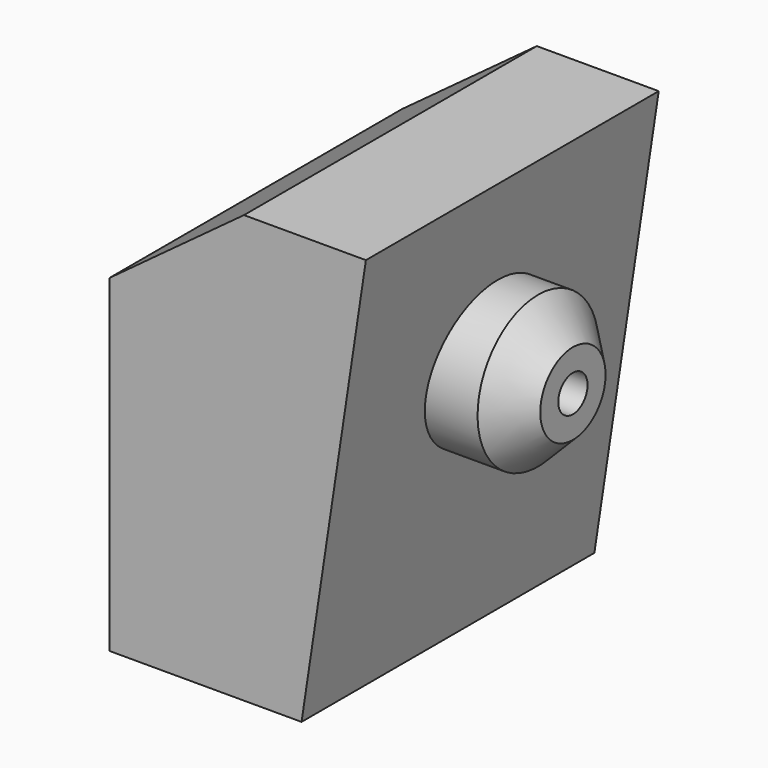
from build123d import *

# Parameters (mm, degrees)
SKETCH003_R  = 1.5
PAD_DEPTH    = 50
PAD001_DEPTH = 15


with BuildPart() as bearingmountcutout:
    # Sketch007 → Revolution003 (revolve)
    with BuildSketch(Plane.XZ):
        Polygon((-35, 0), (-35, 4), (-10, 4), (-10, 1.5), (0, 1.5), (0, 0), align=None)
    revolve(axis=Axis((0, 0, 0), (1, 0, 0)))


with BuildPart() as cutouts:
    # Sketch003 → Pad (new body)
    with BuildSketch(Plane.XY):
        with Locations((-22, 5)):
            Circle(SKETCH003_R)
        with Locations((-12, 5)):
            Circle(SKETCH003_R)
        with Locations((-22, -5)):
            Circle(SKETCH003_R)
        with Locations((-12, -5)):
            Circle(SKETCH003_R)
    extrude(amount=-PAD_DEPTH)

    # Fusion001: union BearingMountCutout
    add(bearingmountcutout.part)


with BuildPart() as innerrace002:
    # Sketch001 → Revolution001 (revolve)
    with BuildSketch(Plane.XZ):
        Polygon((-7.853732, 6.200251), (-2.853732, 6.200251), (0, 3.346519), (0, 0), (-7.853732, 0), align=None)
    revolve(axis=Axis((0, 0, 0), (1, 0, 0)))


with BuildPart() as base001:
    # Sketch004 → Pad001 (new body, symmetric)
    with BuildSketch(Plane.XZ):
        Polygon((-26, -20.927391), (-26, 5.975582), (-14.9603, 14.10621), (-4.966401, 14.10621), (-10.240184, -20.927391), align=None)
    extrude(amount=PAD001_DEPTH, both=True)

    # Fusion: union InnerRace002
    add(innerrace002.part)

    # Cut001: cut Cutouts
    add(cutouts.part, mode=Mode.SUBTRACT)


solid = base001.part
